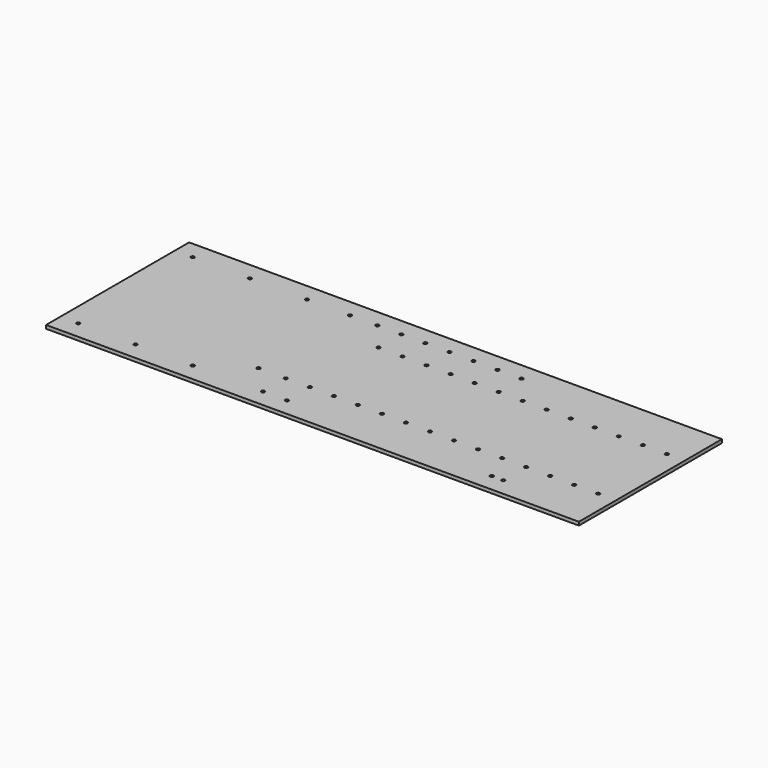
from build123d import *

# Parameters (mm, degrees)
F0_W     = 236.5375
F0_H     = 79.375
F0_R     = 0.762
F1_DEPTH = 1.524


with BuildPart() as f1:
    # F0 (on Top) → F1 (new body)
    with BuildSketch(Plane.XY):
        Rectangle(F0_W, F0_H)
        with Locations((-110.33125, -31.75)):
            Circle(F0_R, mode=Mode.SUBTRACT)
        with Locations((-84.93125, -31.75)):
            Circle(F0_R, mode=Mode.SUBTRACT)
        with Locations((-59.53125, -31.75)):
            Circle(F0_R, mode=Mode.SUBTRACT)
        with Locations((-28.35275, -31.75)):
            Circle(F0_R, mode=Mode.SUBTRACT)
        with Locations((-17.68475, -31.75)):
            Circle(F0_R, mode=Mode.SUBTRACT)
        with Locations((-40.48125, -19.05)):
            Circle(F0_R, mode=Mode.SUBTRACT)
        with Locations((-28.35275, -19.05)):
            Circle(F0_R, mode=Mode.SUBTRACT)
        with Locations((-17.68475, -19.05)):
            Circle(F0_R, mode=Mode.SUBTRACT)
        with Locations((-7.01675, -19.05)):
            Circle(F0_R, mode=Mode.SUBTRACT)
        with Locations((73.25919, -31.75)):
            Circle(F0_R, mode=Mode.SUBTRACT)
        with Locations((78.32725, -31.75)):
            Circle(F0_R, mode=Mode.SUBTRACT)
        with Locations((3.65125, -19.05)):
            Circle(F0_R, mode=Mode.SUBTRACT)
        with Locations((14.31925, -19.05)):
            Circle(F0_R, mode=Mode.SUBTRACT)
        with Locations((24.98725, -19.05)):
            Circle(F0_R, mode=Mode.SUBTRACT)
        with Locations((35.65525, -19.05)):
            Circle(F0_R, mode=Mode.SUBTRACT)
        with Locations((46.32325, -19.05)):
            Circle(F0_R, mode=Mode.SUBTRACT)
        with Locations((56.99125, -19.05)):
            Circle(F0_R, mode=Mode.SUBTRACT)
        with Locations((67.65925, -19.05)):
            Circle(F0_R, mode=Mode.SUBTRACT)
        with Locations((78.32725, -19.05)):
            Circle(F0_R, mode=Mode.SUBTRACT)
        with Locations((88.99525, -19.05)):
            Circle(F0_R, mode=Mode.SUBTRACT)
        with Locations((99.66325, -19.05)):
            Circle(F0_R, mode=Mode.SUBTRACT)
        with Locations((110.33125, -19.05)):
            Circle(F0_R, mode=Mode.SUBTRACT)
        with Locations((-17.68475, 19.05)):
            Circle(F0_R, mode=Mode.SUBTRACT)
        with Locations((-7.01675, 19.05)):
            Circle(F0_R, mode=Mode.SUBTRACT)
        with Locations((-110.33125, 31.75)):
            Circle(F0_R, mode=Mode.SUBTRACT)
        with Locations((-84.93125, 31.75)):
            Circle(F0_R, mode=Mode.SUBTRACT)
        with Locations((-59.53125, 31.75)):
            Circle(F0_R, mode=Mode.SUBTRACT)
        with Locations((-40.48125, 31.75)):
            Circle(F0_R, mode=Mode.SUBTRACT)
        with Locations((-28.35275, 31.75)):
            Circle(F0_R, mode=Mode.SUBTRACT)
        with Locations((-17.68475, 31.75)):
            Circle(F0_R, mode=Mode.SUBTRACT)
        with Locations((-7.01675, 31.75)):
            Circle(F0_R, mode=Mode.SUBTRACT)
        with Locations((3.65125, 19.05)):
            Circle(F0_R, mode=Mode.SUBTRACT)
        with Locations((14.31925, 19.05)):
            Circle(F0_R, mode=Mode.SUBTRACT)
        with Locations((24.98725, 19.05)):
            Circle(F0_R, mode=Mode.SUBTRACT)
        with Locations((35.65525, 19.05)):
            Circle(F0_R, mode=Mode.SUBTRACT)
        with Locations((46.32325, 19.05)):
            Circle(F0_R, mode=Mode.SUBTRACT)
        with Locations((56.99125, 19.05)):
            Circle(F0_R, mode=Mode.SUBTRACT)
        with Locations((67.65925, 19.05)):
            Circle(F0_R, mode=Mode.SUBTRACT)
        with Locations((78.32725, 19.05)):
            Circle(F0_R, mode=Mode.SUBTRACT)
        with Locations((88.99525, 19.05)):
            Circle(F0_R, mode=Mode.SUBTRACT)
        with Locations((99.66325, 19.05)):
            Circle(F0_R, mode=Mode.SUBTRACT)
        with Locations((110.33125, 19.05)):
            Circle(F0_R, mode=Mode.SUBTRACT)
        with Locations((3.65125, 31.75)):
            Circle(F0_R, mode=Mode.SUBTRACT)
        with Locations((14.31925, 31.75)):
            Circle(F0_R, mode=Mode.SUBTRACT)
        with Locations((24.98725, 31.75)):
            Circle(F0_R, mode=Mode.SUBTRACT)
        with Locations((35.65525, 31.75)):
            Circle(F0_R, mode=Mode.SUBTRACT)
    extrude(amount=F1_DEPTH)


solid = f1.part
